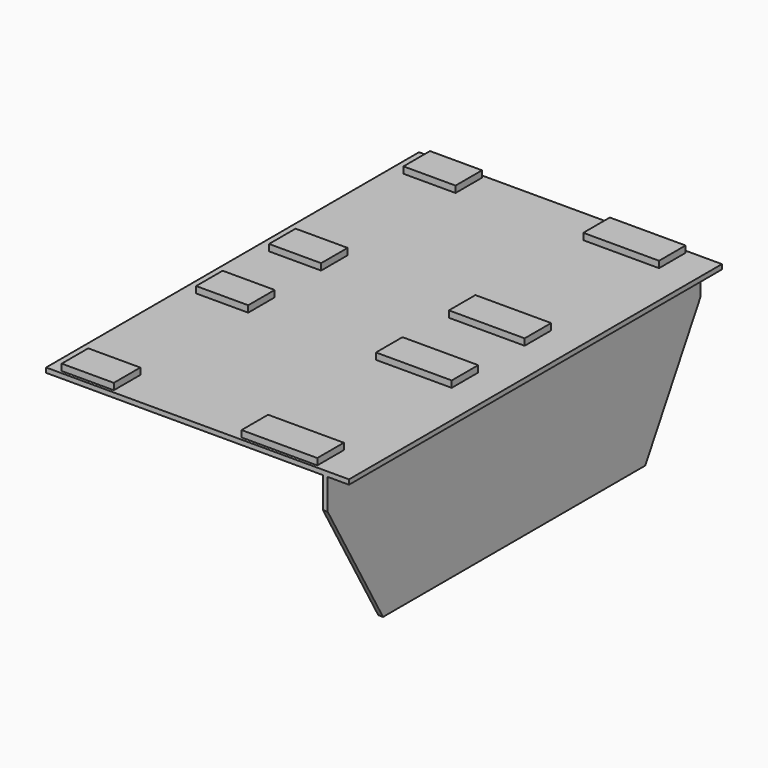
from build123d import *

# Parameters (mm, degrees)
F0_W     = 1625.6
F0_H     = 2501.9
F1_DEPTH = 25.4
F2_W     = 279.4
F2_H     = 177.8
F2_W_2   = 406.4
F3_DEPTH = 35.052
F5_W     = 2501.9
F5_H     = 165.1
F6_DEPTH = 25.4


with BuildPart() as f1:
    # F0 (on Top) → F1 (new body)
    with BuildSketch(Plane.XY):
        Rectangle(F0_W, F0_H)
    extrude(amount=F1_DEPTH)

    # F2 (on face) → F3 (join)
    with BuildSketch(Plane.XY.offset(25.4)):
        with Locations((-601.726, -1146.302)):
            Rectangle(F2_W, F2_H)
        with Locations((-601.726, -244.602)):
            Rectangle(F2_W, F2_H)
        with Locations((426.974, -244.602)):
            Rectangle(F2_W_2, F2_H)
        with Locations((426.974, -1146.302)):
            Rectangle(F2_W_2, F2_H)
        with Locations((426.974, 1146.302)):
            Rectangle(F2_W_2, F2_H)
        with Locations((-601.726, 1146.302)):
            Rectangle(F2_W, F2_H)
        with Locations((-601.726, 244.602)):
            Rectangle(F2_W, F2_H)
        with Locations((426.974, 244.602)):
            Rectangle(F2_W_2, F2_H)
    extrude(amount=F3_DEPTH)

    # F5 (on offset) → F6 (join)
    with BuildSketch(Plane.YZ.offset(698.5)):
        with Locations((0, -82.55)):
            Rectangle(F5_W, F5_H)
        Polygon((879.475, -812.8), (1250.95, -165.1), (-1250.95, -165.1), (-879.475, -812.8), align=None)
    extrude(amount=-F6_DEPTH)


solid = f1.part
